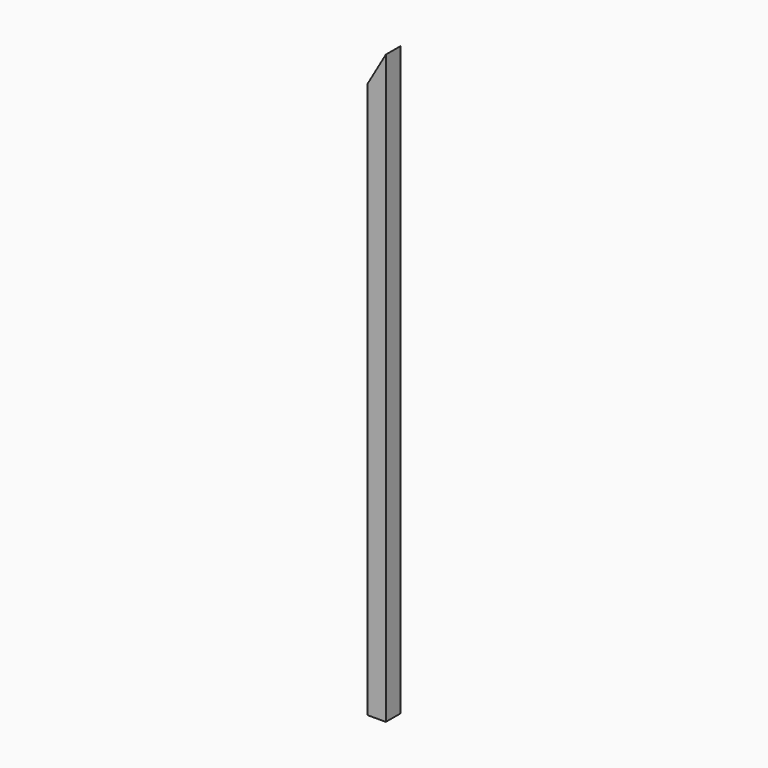
from build123d import *

# Parameters (mm, degrees)
F0_W     = 3.175
F0_H     = 101.6
F1_DEPTH = 3.175
F3_DEPTH = 25.4


with BuildPart() as f1:
    # F0 (on Front) → F1 (new body)
    with BuildSketch(Plane.XZ):
        Rectangle(F0_W, F0_H)
    extrude(amount=F1_DEPTH)

    # F2 (on face) → F3 (cut)
    with BuildSketch(Plane.XZ.offset(3.175)):
        Polygon((-1.5875, 45.300739), (1.5875, 50.8), (-1.5875, 50.8), align=None)
    extrude(amount=-F3_DEPTH, mode=Mode.SUBTRACT)


solid = f1.part
